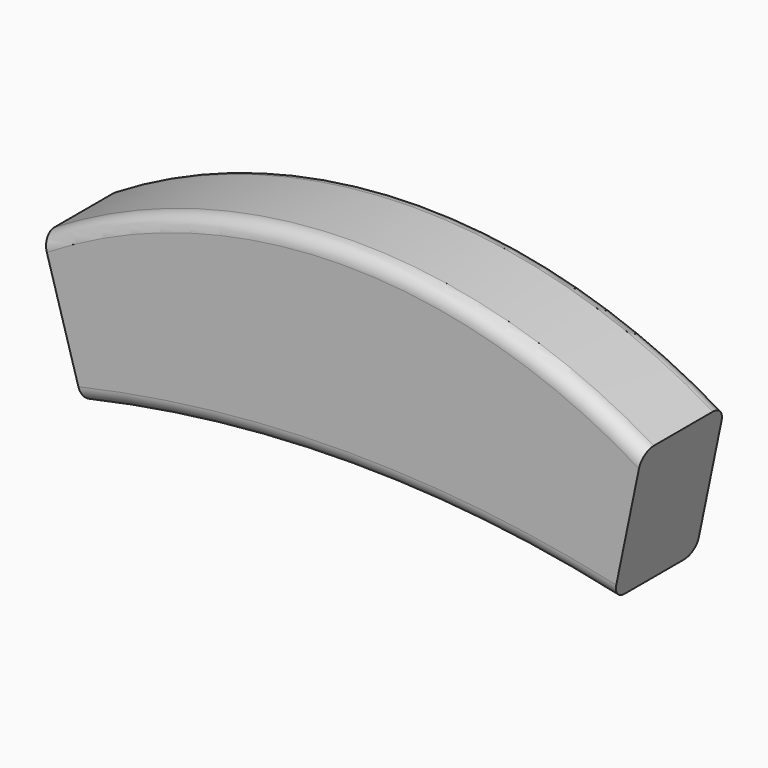
from build123d import *

# Parameters (mm, degrees)
F1_DEPTH = 21
F2_R     = 3
F3_R     = 3


with BuildPart() as f1:
    # F0 (on Front) → F1 (new body)
    with BuildSketch(Plane.XZ):
        with BuildLine():
            Line((54.864183, -44.821762), (60.732431, -16.421697))
            ThreePointArc((60.732431, -16.421697), (-0.345751, 0.375658), (-61.26627, -16.984813))
            Line((-61.26627, -16.984813), (-53.135817, -44.821762))
            ThreePointArc((-53.135817, -44.821762), (0.864183, -38.821762), (54.864183, -44.821762))
        make_face()
    extrude(amount=F1_DEPTH)

    # F2
    f2_edges = [f1.edges().sort_by_distance(p)[0] for p in [
        (-0.345751, -21, 0.375658),
    ]]
    fillet(f2_edges, radius=F2_R)

    # F3
    f3_edges = [f1.edges().sort_by_distance(p)[0] for p in [
        (-0.345751, 0, 0.375658),
        (0.864183, -21, -38.821762),
        (0.864183, 0, -38.821762),
    ]]
    fillet(f3_edges, radius=F3_R)


solid = f1.part
